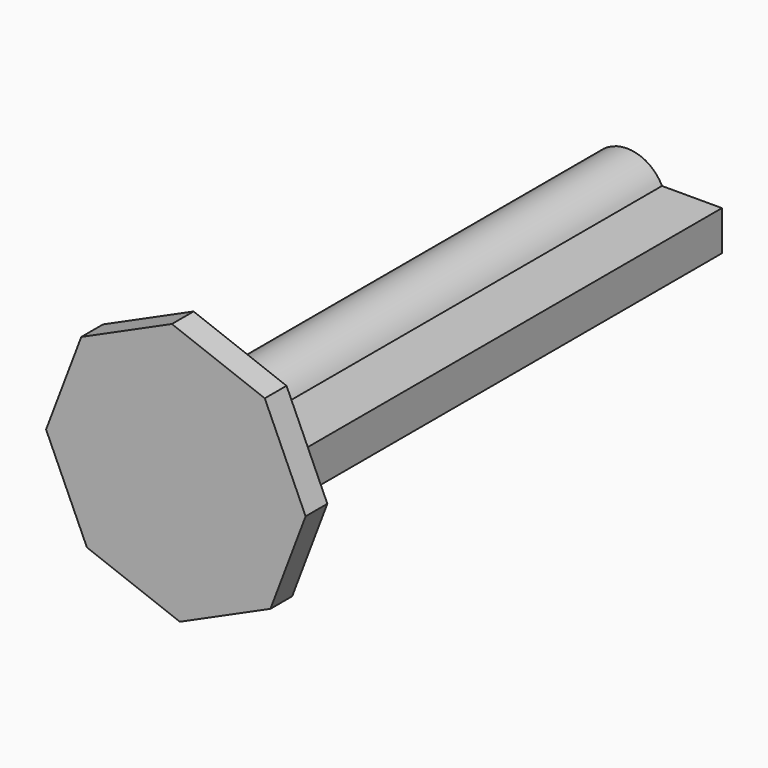
from build123d import *

# Parameters (mm, degrees)
F1_DEPTH = 508
F4_DEPTH = 25.4


with BuildPart() as f1:
    # F0 (on Front) → F1 (new body)
    with BuildSketch(Plane.XZ):
        with BuildLine():
            Line((88.6366697668, 16.0722345858), (32.6010492352, 16.0722345858))
            ThreePointArc((32.6010492352, 16.0722345858), (-36.2741502146, 2.3089309281), (30.3001308518, -20.0760356193))
            Line((30.3001308518, -20.0760356193), (88.6366697668, -21.140081808))
            Line((88.6366697668, -21.140081808), (88.6366697668, 16.0722345858))
        make_face()
    extrude(amount=F1_DEPTH)


with BuildPart() as f4:
    # F3 (on offset) → F4 (new body)
    with BuildSketch(Plane.XZ.offset(508)):
        Polygon((-78.4366879534, -100.8194525046), (8.4579590629, -133.7226342159), (93.1678161276, -95.5449029725), (126.0709978389, -8.6502559562), (87.8932665955, 76.0596011085), (0.9986195792, 108.9627828198), (-83.7112374855, 70.7850515764), (-116.6144191968, -16.1095954399), align=None)
    extrude(amount=F4_DEPTH)


solid = Compound([f1.part, f4.part])
